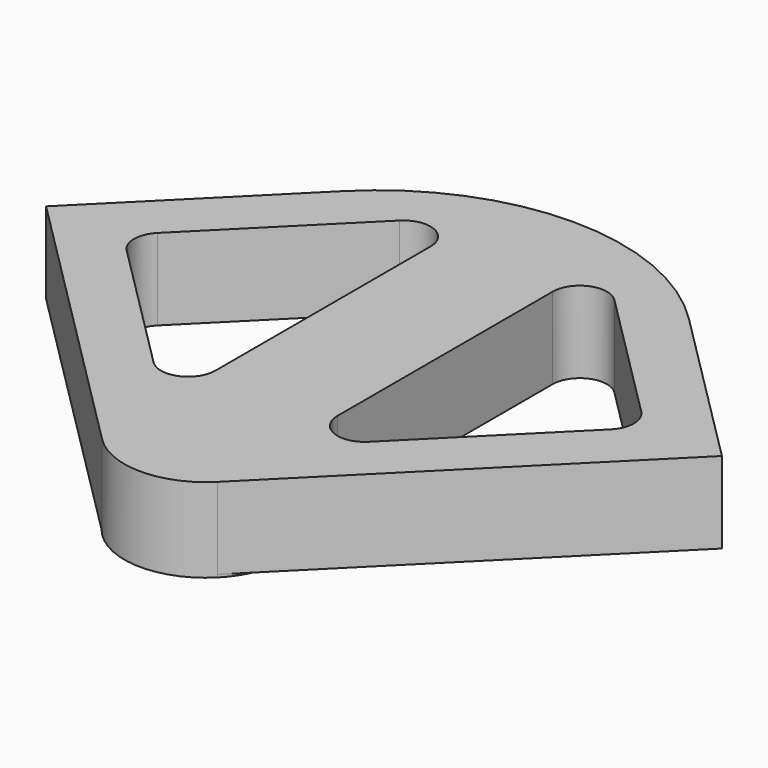
from build123d import *

# Parameters (mm, degrees)
F1_DEPTH = 3
F2_DEPTH = 0.1


with BuildPart() as f1:
    # F0 (on Top) → F1 (new body)
    with BuildSketch(Plane.XY):
        with BuildLine():
            Line((-3.25, 3.25), (-2.12132, 2.12132))
            ThreePointArc((-2.12132, 2.12132), (-1.14805, 7.014279), (3, 4.242641))
            ThreePointArc((3, 4.242641), (2.771639, 3.09459), (2.12132, 2.12132))
            Line((2.12132, 2.12132), (3.25, 3.25))
            Line((3.25, 3.25), (12.445079, 12.445079))
            Line((12.445079, 12.445079), (6.363961, 18.526198))
            ThreePointArc((6.363961, 18.526198), (0, 21.162237), (-6.363961, 18.526198))
            Line((-6.363961, 18.526198), (-12.445079, 12.445079))
            Line((-12.445079, 12.445079), (-3.25, 3.25))
        make_face()
        with BuildLine():
            ThreePointArc((-8.909545, 11.737973), (-9.202439, 12.445079), (-8.909545, 13.152186))
            Line((-8.909545, 13.152186), (-3.957107, 18.104625))
            ThreePointArc((-3.957107, 18.104625), (-2.867317, 18.321398), (-2.25, 17.397518))
            Line((-2.25, 17.397518), (-2.25, 7.492641))
            ThreePointArc((-2.25, 7.492641), (-2.867317, 6.568761), (-3.957107, 6.785534))
            Line((-3.957107, 6.785534), (-8.909545, 11.737973))
        make_face(mode=Mode.SUBTRACT)
        with BuildLine():
            Line((2.25, 7.492641), (2.25, 17.397518))
            ThreePointArc((2.25, 17.397518), (2.867317, 18.321398), (3.957107, 18.104625))
            Line((3.957107, 18.104625), (8.909545, 13.152186))
            ThreePointArc((8.909545, 13.152186), (9.202439, 12.445079), (8.909545, 11.737973))
            Line((8.909545, 11.737973), (3.957107, 6.785534))
            ThreePointArc((3.957107, 6.785534), (2.867317, 6.568761), (2.25, 7.492641))
        make_face(mode=Mode.SUBTRACT)
        with BuildLine():
            ThreePointArc((3, 4.242641), (-1.14805, 7.014279), (-2.12132, 2.12132))
            ThreePointArc((-2.12132, 2.12132), (0, 1.242641), (2.12132, 2.12132))
            ThreePointArc((2.12132, 2.12132), (2.771639, 3.09459), (3, 4.242641))
        make_face()
    extrude(amount=F1_DEPTH)

    # F0 (on Top) → F2 (join)
    with BuildSketch(Plane.XY):
        with BuildLine():
            ThreePointArc((3, 4.242641), (-1.14805, 7.014279), (-2.12132, 2.12132))
            ThreePointArc((-2.12132, 2.12132), (0, 1.242641), (2.12132, 2.12132))
            ThreePointArc((2.12132, 2.12132), (2.771639, 3.09459), (3, 4.242641))
        make_face()
    extrude(amount=-F2_DEPTH)


solid = f1.part
